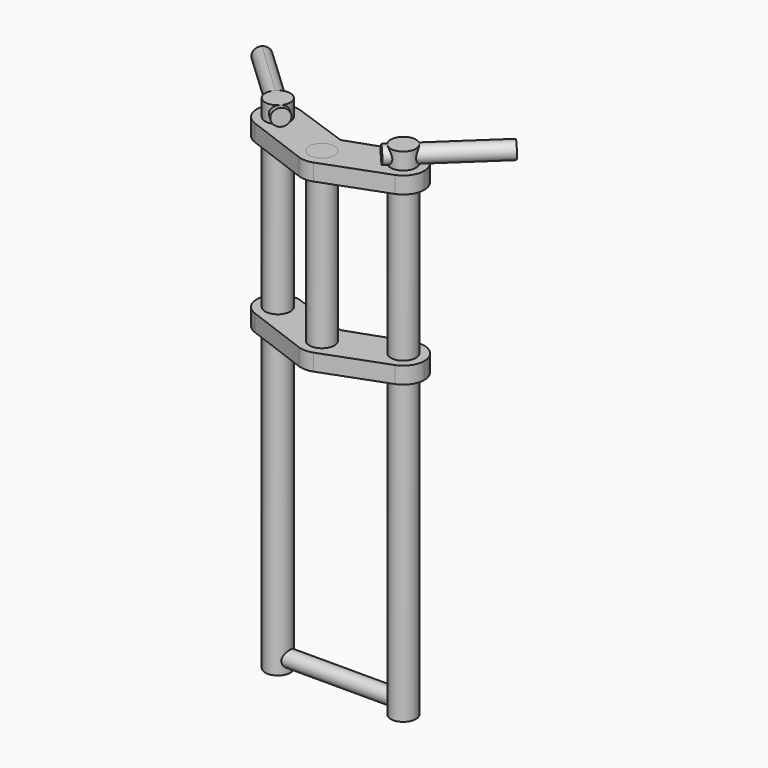
from build123d import *

# Parameters (mm, degrees)
F0_R          = 19.05
F3_DEPTH      = 25.4
F2_R          = 19.05
F4_DEPTH      = 25.4
F5_DEPTH      = 457.2
F6_DEPTH      = 254
F6_DEPTH_BACK = 50.8
F7_DEPTH      = 254
F7_DEPTH_BACK = 25.4
F11_R         = 12
F12_DEPTH     = 180
F18_R         = 12.7
F19_DEPTH     = 160
F21_DEPTH     = 160


with BuildPart() as f3:
    # F0 (on Top) → F3 (new body)
    with BuildSketch(Plane.XY):
        with BuildLine():
            ThreePointArc((-106.2985327043, 5.5896788142), (-77.121685315, 9.2894887986), (-63.5, 35.355303704))
            ThreePointArc((-63.5, 35.355303704), (-69.3262335555, 53.6861747507), (-84.6666666667, 65.2894907742))
            ThreePointArc((-84.6666666667, 65.2894907742), (-125.1008122106, 46.17156509), (-106.2985327043, 5.5896788142))
        make_face()
        with Locations((-95.25, 35.355303704)):
            Circle(F0_R, mode=Mode.SUBTRACT)
        with BuildLine():
            ThreePointArc((-84.6666666667, 65.2894907742), (-69.3262335555, 53.6861747507), (-63.5, 35.355303704))
            ThreePointArc((-63.5, 35.355303704), (-77.121685315, 9.2894887986), (-106.2985327043, 5.5896788142))
            Line((-106.2985327043, 5.5896788142), (-11.048533057, -29.7656258398))
            ThreePointArc((-11.048533057, -29.7656258398), (-18.1283152636, 26.0658157373), (31.7500010133, 0))
            ThreePointArc((31.7500010133, 0), (26.0658157373, -18.1283152636), (11.048533057, -29.7656258398))
            Line((11.048533057, -29.7656258398), (106.2985327043, 5.5896788142))
            ThreePointArc((106.2985327043, 5.5896788142), (65.3991877894, 24.539042318), (84.6666666667, 65.2894907742))
            Line((84.6666666667, 65.2894907742), (2.1166666667, 36.1036583807))
            ThreePointArc((2.1166666667, 36.1036583807), (0, 35.7404957948), (-2.1166666667, 36.1036583807))
            Line((-2.1166666667, 36.1036583807), (-84.6666666667, 65.2894907742))
        make_face()
        with BuildLine():
            ThreePointArc((31.7500010133, 0), (-18.1283152636, 26.0658157373), (-11.048533057, -29.7656258398))
            ThreePointArc((-11.048533057, -29.7656258398), (0, -31.7500010133), (11.048533057, -29.7656258398))
            ThreePointArc((11.048533057, -29.7656258398), (26.0658157373, -18.1283152636), (31.7500010133, 0))
        make_face()
        Circle(F0_R, mode=Mode.SUBTRACT)
        with BuildLine():
            ThreePointArc((127, 35.355303704), (113.5808710468, 61.2790701484), (84.6666666667, 65.2894907742))
            ThreePointArc((84.6666666667, 65.2894907742), (65.3991877894, 24.539042318), (106.2985327043, 5.5896788142))
            ThreePointArc((106.2985327043, 5.5896788142), (121.3158149054, 17.226989019), (127, 35.355303704))
        make_face()
        with Locations((95.25, 35.355303704)):
            Circle(F0_R, mode=Mode.SUBTRACT)
    extrude(amount=F3_DEPTH)


with BuildPart() as f4:
    # F2 (on offset) → F4 (new body)
    with BuildSketch(Plane.XY.offset(254)):
        with BuildLine():
            ThreePointArc((-106.2985327043, 5.5896788142), (-77.121685315, 9.2894887986), (-63.5, 35.355303704))
            ThreePointArc((-63.5, 35.355303704), (-69.3262335555, 53.6861747507), (-84.6666666667, 65.2894907742))
            ThreePointArc((-84.6666666667, 65.2894907742), (-125.1008122106, 46.17156509), (-106.2985327043, 5.5896788142))
        make_face()
        with Locations((-95.25, 35.355303704)):
            Circle(F2_R, mode=Mode.SUBTRACT)
        with BuildLine():
            ThreePointArc((-84.6666666667, 65.2894907742), (-69.3262335555, 53.6861747507), (-63.5, 35.355303704))
            ThreePointArc((-63.5, 35.355303704), (-77.121685315, 9.2894887986), (-106.2985327043, 5.5896788142))
            Line((-106.2985327043, 5.5896788142), (-11.048533057, -29.7656258398))
            ThreePointArc((-11.048533057, -29.7656258398), (-18.1283152636, 26.0658157373), (31.7500010133, 0))
            ThreePointArc((31.7500010133, 0), (26.0658157373, -18.1283152636), (11.048533057, -29.7656258398))
            Line((11.048533057, -29.7656258398), (106.2985327043, 5.5896788142))
            ThreePointArc((106.2985327043, 5.5896788142), (65.3991877894, 24.539042318), (84.6666666667, 65.2894907742))
            Line((84.6666666667, 65.2894907742), (2.1166666667, 36.1036583807))
            ThreePointArc((2.1166666667, 36.1036583807), (0, 35.7404957948), (-2.1166666667, 36.1036583807))
            Line((-2.1166666667, 36.1036583807), (-84.6666666667, 65.2894907742))
        make_face()
        with BuildLine():
            ThreePointArc((31.7500010133, 0), (-18.1283152636, 26.0658157373), (-11.048533057, -29.7656258398))
            ThreePointArc((-11.048533057, -29.7656258398), (0, -31.7500010133), (11.048533057, -29.7656258398))
            ThreePointArc((11.048533057, -29.7656258398), (26.0658157373, -18.1283152636), (31.7500010133, 0))
        make_face()
        Circle(F2_R, mode=Mode.SUBTRACT)
        with BuildLine():
            ThreePointArc((127, 35.355303704), (113.5808710468, 61.2790701484), (84.6666666667, 65.2894907742))
            ThreePointArc((84.6666666667, 65.2894907742), (65.3991877894, 24.539042318), (106.2985327043, 5.5896788142))
            ThreePointArc((106.2985327043, 5.5896788142), (121.3158149054, 17.226989019), (127, 35.355303704))
        make_face()
        with Locations((95.25, 35.355303704)):
            Circle(F2_R, mode=Mode.SUBTRACT)
    extrude(amount=F4_DEPTH)


with BuildPart() as f5:
    # F0 (on Top) → F5 (new body)
    with BuildSketch(Plane.XY):
        with Locations((-95.25, 35.355303704)):
            Circle(F0_R)
    extrude(amount=-F5_DEPTH)



with BuildPart() as f5b:
    # F0 (on Top) → F5, piece 2 (new body)
    with BuildSketch(Plane.XY):
        with Locations((95.25, 35.355303704)):
            Circle(F0_R)
    extrude(amount=-F5_DEPTH)


with BuildPart() as f6:
    # F2 (on offset) → F6 (new body, two sides)
    with BuildSketch(Plane.XY.offset(254)) as f6_sk:
        with Locations((-95.25, 35.355303704)):
            Circle(F2_R)
    extrude(amount=-F6_DEPTH)
    extrude(f6_sk.sketch, amount=F6_DEPTH_BACK)


with BuildPart() as f6b:
    # F2 (on offset) → F6, piece 2 (new body, two sides)
    with BuildSketch(Plane.XY.offset(254)) as f6_2_sk:
        with Locations((95.25, 35.355303704)):
            Circle(F2_R)
    extrude(amount=-F6_DEPTH)
    extrude(f6_2_sk.sketch, amount=F6_DEPTH_BACK)


with BuildPart() as f7:
    # F2 (on offset) → F7 (new body, two sides)
    with BuildSketch(Plane.XY.offset(254)) as f7_sk:
        Circle(F2_R)
    extrude(amount=-F7_DEPTH)
    extrude(f7_sk.sketch, amount=F7_DEPTH_BACK)


with BuildPart() as f5_1:
    add(f5.part)

    add(f5b.part)  # F12 merges F5b
    # F11 (on face) → F12 (join)
    with BuildSketch(Plane.YZ.offset(95.25)):
        with Locations((35.355303704, -438.15)):
            Circle(F11_R)
    extrude(amount=-F12_DEPTH)


with BuildPart() as f19:
    # F18 (on offset) → F19 (new body)
    with BuildSketch(Plane(origin=(49.2461853383, 46.3672973092, 0), x_dir=(-0.6855053809, 0.7280675605, 0), z_dir=(0.7280675605, 0.6855053809, 0))):
        with Locations((-39.5533378152, 292.1)):
            Circle(F18_R)
    extrude(amount=F19_DEPTH)


with BuildPart() as f21:
    # F20 (on offset) → F21 (new body)
    with BuildSketch(Plane(origin=(-49.2461853383, 46.3672973092, 0), x_dir=(-0.6855053809, -0.7280675605, 0), z_dir=(-0.7280675605, 0.6855053809, 0))):
        with BuildLine():
            ThreePointArc((52.2533378152, 292.1), (48.5335939363, 301.0802561211), (39.5533378152, 304.8))
            ThreePointArc((39.5533378152, 304.8), (26.8533378152, 292.1), (39.5533378152, 279.4))
            ThreePointArc((39.5533378152, 279.4), (48.5335939363, 283.1197438789), (52.2533378152, 292.1))
        make_face()
    extrude(amount=F21_DEPTH)


solid = Compound([f3.part, f4.part, f6.part, f6b.part, f7.part, f5_1.part, f19.part, f21.part])
